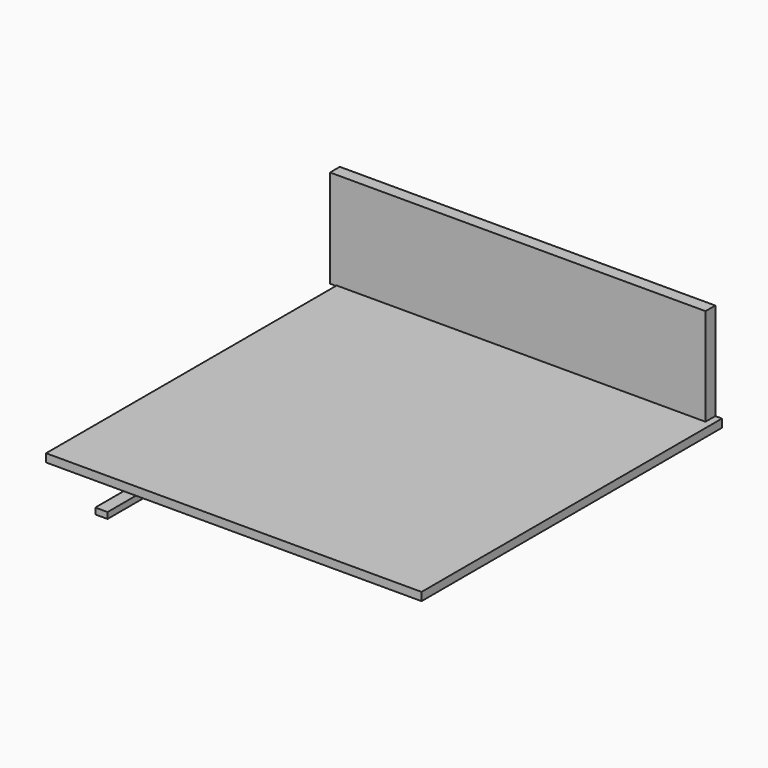
from build123d import *

# Parameters (mm, degrees)
F1_W     = 19.05
F1_H     = 9.525
F2_DEPTH = 584.2
F0_W     = 584.2
F0_H     = 12.7
F3_DEPTH = 584.2
F4_W     = 584.2
F4_H     = 152.4
F5_DEPTH = 19.05


with BuildPart() as f2:
    # F1 (on Front) → F2 (new body)
    with BuildSketch(Plane.XZ):
        with Locations((-193.325251, -53.330537)):
            Rectangle(F1_W, F1_H)
    extrude(amount=F2_DEPTH)


with BuildPart() as f3:
    # F0 (on Front) → F3 (new body)
    with BuildSketch(Plane.XZ):
        with Locations((12.677219, -5.41553)):
            Rectangle(F0_W, F0_H)
    extrude(amount=F3_DEPTH)

    # F4 (on Front) → F5 (join)
    with BuildSketch(Plane.XZ):
        with Locations((2.377348, 76.2)):
            Rectangle(F4_W, F4_H)
    extrude(amount=F5_DEPTH)


solid = Compound([f2.part, f3.part])
